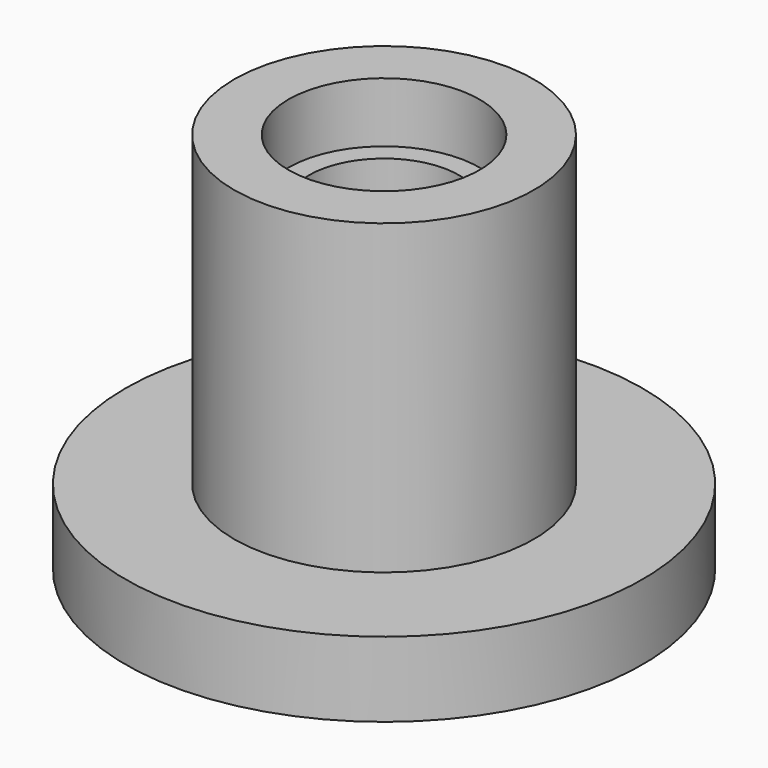
from build123d import *


with BuildPart() as f1:
    # F0 (on Front) → F1 (revolve)
    with BuildSketch(Plane.XZ):
        Polygon((-5, 0), (-2, 0), (-2, 8.6), (-3.1, 8.6), (-3.1, 1.5), (-5, 1.5), align=None)
    revolve(axis=Axis((0, 0, 6.250541), (0, 0, 1)))


with BuildPart() as f3:
    # F2 (on Front) → F3 (revolve)
    with BuildSketch(Plane.XZ):
        Polygon((-6.9, 0), (-2.55, 0), (-2.55, 10.2), (-4, 10.2), (-4, 2), (-6.9, 2), align=None)
    revolve(axis=Axis((0, 0, 4.618362), (0, 0, 1)))


solid = Compound([f1.part, f3.part])
